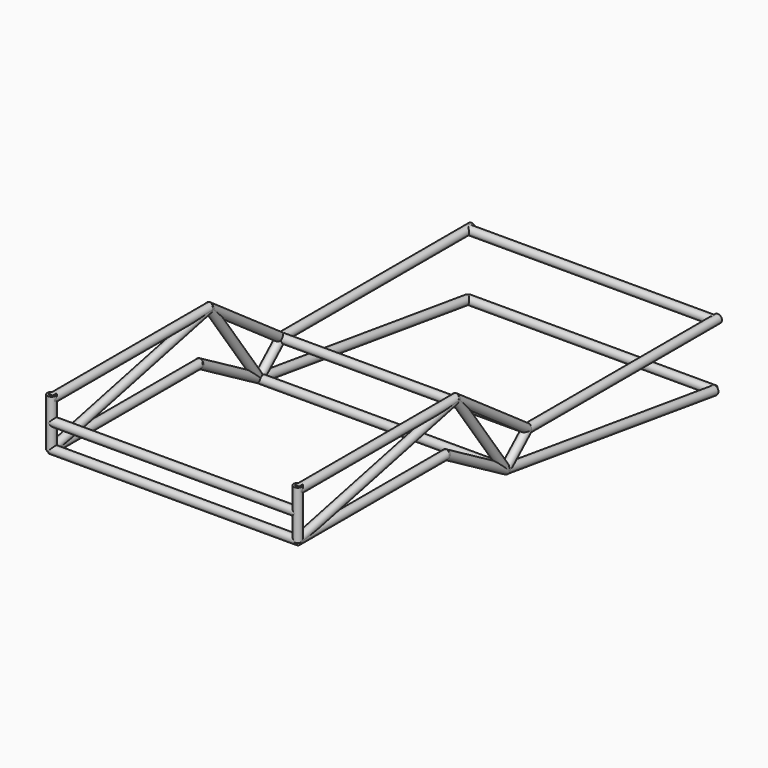
from build123d import *

# Parameters (mm, degrees)
F13_R          = 17
F14_DEPTH      = 405
F14_DEPTH_BACK = 405
F15_DEPTH      = 355
F15_DEPTH_BACK = 405
F17_R          = 17
F18_DEPTH      = 222
F18_DEPTH_BACK = 228
F20_R          = 17
F21_DEPTH      = 180
F21_DEPTH_BACK = 180
F24_R          = 17
F25_DEPTH      = 500
F25_DEPTH_BACK = 500
F27_R          = 17
F28_DEPTH      = 105
F28_DEPTH_BACK = 92
F30_R          = 17
F31_DEPTH      = 405
F31_DEPTH_BACK = 405
F33_R          = 17
F34_DEPTH      = 220
F34_DEPTH_BACK = 218
F36_R          = 17
F37_DEPTH      = 75
F37_DEPTH_BACK = 75
F38_R          = 17
F39_DEPTH      = 492
F39_DEPTH_BACK = 480
F41_R          = 17
F42_DEPTH      = 535
F42_DEPTH_BACK = 537


with BuildPart() as f14:
    # F13 (on line) → F14 (new body, two sides)
    with BuildSketch(Plane(origin=(0, 400, 0), x_dir=(-1, 0, 0), z_dir=(0, 1, 0))) as f14_sk:
        with Locations((-500, 180)):
            Circle(F13_R)
    extrude(amount=F14_DEPTH)
    extrude(f14_sk.sketch, amount=-F14_DEPTH_BACK)


with BuildPart() as f14b:
    # F13 (on line) → F14, piece 2 (new body, two sides)
    with BuildSketch(Plane(origin=(0, 400, 0), x_dir=(-1, 0, 0), z_dir=(0, 1, 0))) as f14_2_sk:
        with Locations((500, 180)):
            Circle(F13_R)
    extrude(amount=F14_DEPTH)
    extrude(f14_2_sk.sketch, amount=-F14_DEPTH_BACK)


with BuildPart() as f15:
    # F13 (on line) → F15 (new body, two sides)
    with BuildSketch(Plane(origin=(0, 400, 0), x_dir=(-1, 0, 0), z_dir=(0, 1, 0))) as f15_sk:
        with Locations((-500, 0)):
            Circle(F13_R)
    extrude(amount=F15_DEPTH)
    extrude(f15_sk.sketch, amount=-F15_DEPTH_BACK)


with BuildPart() as f15b:
    # F13 (on line) → F15, piece 2 (new body, two sides)
    with BuildSketch(Plane(origin=(0, 400, 0), x_dir=(-1, 0, 0), z_dir=(0, 1, 0))) as f15_2_sk:
        with Locations((500, 0)):
            Circle(F13_R)
    extrude(amount=F15_DEPTH)
    extrude(f15_2_sk.sketch, amount=-F15_DEPTH_BACK)


with BuildPart() as f18:
    # F17 (on line) → F18 (new body, two sides)
    with BuildSketch(Plane(origin=(0, 634.3245923192, -444.1588612137), x_dir=(-1, 0, 0), z_dir=(0, 0.8191520443, -0.5735764364))) as f18_sk:
        with Locations((-500, 606.3085170529)):
            Circle(F17_R)
    extrude(amount=F18_DEPTH)
    extrude(f18_sk.sketch, amount=-F18_DEPTH_BACK)


with BuildPart() as f18b:
    # F17 (on line) → F18, piece 2 (new body, two sides)
    with BuildSketch(Plane(origin=(0, 634.3245923192, -444.1588612137), x_dir=(-1, 0, 0), z_dir=(0, 0.8191520443, -0.5735764364))) as f18_2_sk:
        with Locations((500, 606.3085170529)):
            Circle(F17_R)
    extrude(amount=F18_DEPTH)
    extrude(f18_2_sk.sketch, amount=-F18_DEPTH_BACK)


with BuildPart() as f21:
    # F20 (on line) → F21 (new body, two sides)
    with BuildSketch(Plane(origin=(0, 714.0544456623, -412.2595264192), x_dir=(-1, 0, 0), z_dir=(0, 0.8660254038, -0.5))) as f21_sk:
        with Locations((-500, 375)):
            Circle(F20_R)
    extrude(amount=F21_DEPTH)
    extrude(f21_sk.sketch, amount=-F21_DEPTH_BACK)


with BuildPart() as f21b:
    # F20 (on line) → F21, piece 2 (new body, two sides)
    with BuildSketch(Plane(origin=(0, 714.0544456623, -412.2595264192), x_dir=(-1, 0, 0), z_dir=(0, 0.8660254038, -0.5))) as f21_2_sk:
        with Locations((500, 375)):
            Circle(F20_R)
    extrude(amount=F21_DEPTH)
    extrude(f21_2_sk.sketch, amount=-F21_DEPTH_BACK)


with BuildPart() as f25:
    # F24 (on line) → F25 (new body, two sides)
    with BuildSketch(Plane(origin=(0, 0, 0), x_dir=(0, -1, 0), z_dir=(-1, 0, 0))) as f25_sk:
        with Locations((-1053.1088913246, -175)):
            Circle(F24_R)
    extrude(amount=F25_DEPTH)
    extrude(f25_sk.sketch, amount=-F25_DEPTH_BACK)


with BuildPart() as f25b:
    # F24 (on line) → F25, piece 2 (new body, two sides)
    with BuildSketch(Plane(origin=(0, 0, 0), x_dir=(0, -1, 0), z_dir=(-1, 0, 0))) as f25_2_sk:
        with Locations((-1164.1777417192, -75)):
            Circle(F24_R)
    extrude(amount=F25_DEPTH)
    extrude(f25_2_sk.sketch, amount=-F25_DEPTH_BACK)


with BuildPart() as f25c:
    # F24 (on line) → F25, piece 3 (new body, two sides)
    with BuildSketch(Plane(origin=(0, 0, 0), x_dir=(0, -1, 0), z_dir=(-1, 0, 0))) as f25_3_sk:
        with Locations((0, 100)):
            Circle(F24_R)
    extrude(amount=F25_DEPTH)
    extrude(f25_3_sk.sketch, amount=-F25_DEPTH_BACK)


with BuildPart() as f25d:
    # F24 (on line) → F25, piece 4 (new body, two sides)
    with BuildSketch(Plane(origin=(0, 0, 0), x_dir=(0, -1, 0), z_dir=(-1, 0, 0))) as f25_4_sk:
        Circle(F24_R)
    extrude(amount=F25_DEPTH)
    extrude(f25_4_sk.sketch, amount=-F25_DEPTH_BACK)


with BuildPart() as f25e:
    # F24 (on line) → F25, piece 5 (new body, two sides)
    with BuildSketch(Plane(origin=(0, 0, 0), x_dir=(0, -1, 0), z_dir=(-1, 0, 0))) as f25_5_sk:
        with Locations((-2114.1777417192, -75)):
            Circle(F24_R)
    extrude(amount=F25_DEPTH)
    extrude(f25_5_sk.sketch, amount=-F25_DEPTH_BACK)


with BuildPart() as f25f:
    # F24 (on line) → F25, piece 6 (new body, two sides)
    with BuildSketch(Plane(origin=(0, 0, 0), x_dir=(0, -1, 0), z_dir=(-1, 0, 0))) as f25_6_sk:
        with Locations((-2114.1777417192, -325)):
            Circle(F24_R)
    extrude(amount=F25_DEPTH)
    extrude(f25_6_sk.sketch, amount=-F25_DEPTH_BACK)


with BuildPart() as f28:
    # F27 (on line) → F28 (new body, two sides)
    with BuildSketch(Plane.XY.offset(90)) as f28_sk:
        with Locations((-500, 0)):
            Circle(F27_R)
    extrude(amount=F28_DEPTH)
    extrude(f28_sk.sketch, amount=-F28_DEPTH_BACK)


with BuildPart() as f28b:
    # F27 (on line) → F28, piece 2 (new body, two sides)
    with BuildSketch(Plane.XY.offset(90)) as f28_2_sk:
        with Locations((500, 0)):
            Circle(F27_R)
    extrude(amount=F28_DEPTH)
    extrude(f28_2_sk.sketch, amount=-F28_DEPTH_BACK)


with BuildPart() as f31:
    # F30 (on line) → F31 (new body, two sides)
    with BuildSketch(Plane(origin=(0, 400, 90), x_dir=(1, 0, 0), z_dir=(0, -0.9756097561, -0.2195121951))) as f31_sk:
        with Locations((-500, 0)):
            Circle(F30_R)
    extrude(amount=F31_DEPTH)
    extrude(f31_sk.sketch, amount=-F31_DEPTH_BACK)


with BuildPart() as f31b:
    # F30 (on line) → F31, piece 2 (new body, two sides)
    with BuildSketch(Plane(origin=(0, 400, 90), x_dir=(1, 0, 0), z_dir=(0, -0.9756097561, -0.2195121951))) as f31_2_sk:
        with Locations((500, 0)):
            Circle(F30_R)
    extrude(amount=F31_DEPTH)
    extrude(f31_2_sk.sketch, amount=-F31_DEPTH_BACK)


with BuildPart() as f34:
    # F33 (on line) → F34 (new body, two sides)
    with BuildSketch(Plane(origin=(0, 311.0870071452, -436.3176929843), x_dir=(1, 0, 0), z_dir=(0, 0.5805354996, -0.8142349377))) as f34_sk:
        with Locations((-500, -755.8843400619)):
            Circle(F33_R)
    extrude(amount=F34_DEPTH)
    extrude(f34_sk.sketch, amount=-F34_DEPTH_BACK)


with BuildPart() as f34b:
    # F33 (on line) → F34, piece 2 (new body, two sides)
    with BuildSketch(Plane(origin=(0, 311.0870071452, -436.3176929843), x_dir=(1, 0, 0), z_dir=(0, 0.5805354996, -0.8142349377))) as f34_2_sk:
        with Locations((500, -755.8843400619)):
            Circle(F33_R)
    extrude(amount=F34_DEPTH)
    extrude(f34_2_sk.sketch, amount=-F34_DEPTH_BACK)


with BuildPart() as f37:
    # F36 (on line) → F37 (new body, two sides)
    with BuildSketch(Plane(origin=(0, 550.1443868086, 495.3183406992), x_dir=(1, 0, 0), z_dir=(0, -0.74316759, -0.6691053229))) as f37_sk:
        with Locations((-500, -834.6950930122)):
            Circle(F36_R)
    extrude(amount=F37_DEPTH)
    extrude(f37_sk.sketch, amount=-F37_DEPTH_BACK)


with BuildPart() as f37b:
    # F36 (on line) → F37, piece 2 (new body, two sides)
    with BuildSketch(Plane(origin=(0, 550.1443868086, 495.3183406992), x_dir=(1, 0, 0), z_dir=(0, -0.74316759, -0.6691053229))) as f37_2_sk:
        with Locations((500, -834.6950930122)):
            Circle(F36_R)
    extrude(amount=F37_DEPTH)
    extrude(f37_2_sk.sketch, amount=-F37_DEPTH_BACK)


with BuildPart() as f39:
    # F38 (on line) → F39 (new body, two sides)
    with BuildSketch(Plane(origin=(0, 1639.1777417192, 0), x_dir=(-1, 0, 0), z_dir=(0, 1, 0))) as f39_sk:
        with Locations((-500, -75)):
            Circle(F38_R)
    extrude(amount=F39_DEPTH)
    extrude(f39_sk.sketch, amount=-F39_DEPTH_BACK)


with BuildPart() as f39b:
    # F38 (on line) → F39, piece 2 (new body, two sides)
    with BuildSketch(Plane(origin=(0, 1639.1777417192, 0), x_dir=(-1, 0, 0), z_dir=(0, 1, 0))) as f39_2_sk:
        with Locations((500, -75)):
            Circle(F38_R)
    extrude(amount=F39_DEPTH)
    extrude(f39_2_sk.sketch, amount=-F39_DEPTH_BACK)


with BuildPart() as f42:
    # F41 (on line) → F42 (new body, two sides)
    with BuildSketch(Plane(origin=(0, 1587.2642033001, -224.3865988587), x_dir=(-1, 0, 0), z_dir=(0, 0.9901550193, -0.1399751325))) as f42_sk:
        with Locations((-500, -25.8680718084)):
            Circle(F41_R)
    extrude(amount=F42_DEPTH)
    extrude(f42_sk.sketch, amount=-F42_DEPTH_BACK)


with BuildPart() as f42b:
    # F41 (on line) → F42, piece 2 (new body, two sides)
    with BuildSketch(Plane(origin=(0, 1587.2642033001, -224.3865988587), x_dir=(-1, 0, 0), z_dir=(0, 0.9901550193, -0.1399751325))) as f42_2_sk:
        with Locations((500, -25.8680718084)):
            Circle(F41_R)
    extrude(amount=F42_DEPTH)
    extrude(f42_2_sk.sketch, amount=-F42_DEPTH_BACK)


solid = Compound([f14.part, f14b.part, f15.part, f15b.part, f18.part, f18b.part, f21.part, f21b.part, f25.part, f25b.part, f25c.part, f25d.part, f25e.part, f25f.part, f28.part, f28b.part, f31.part, f31b.part, f34.part, f34b.part, f37.part, f37b.part, f39.part, f39b.part, f42.part, f42b.part])
